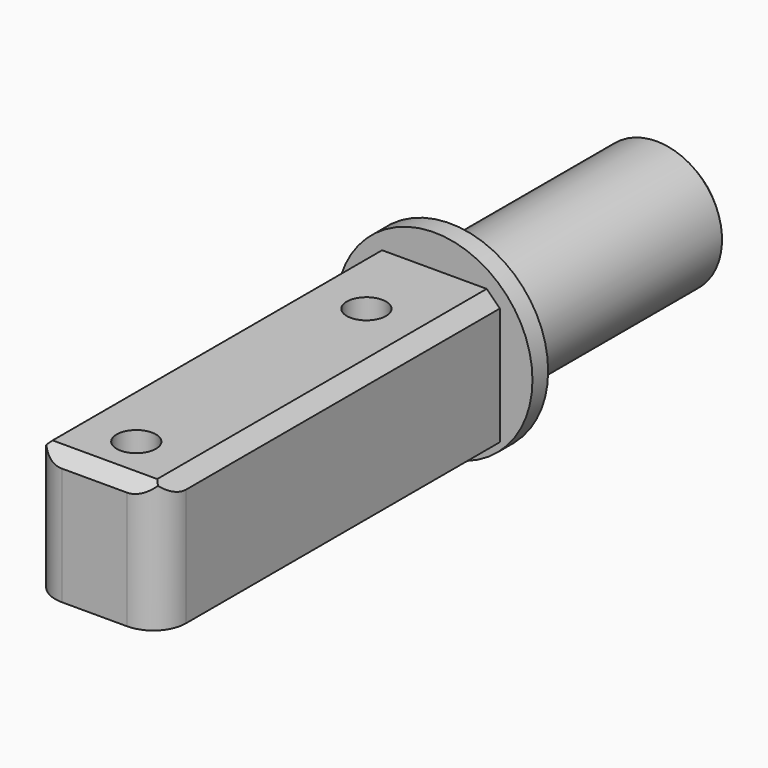
from build123d import *

# Parameters (mm, degrees)
F0_W      = 20
F0_H      = 20
F1_DEPTH  = 65
F0_R      = 15
F1_FACE_W = 20
F1_FACE_H = 20
F2_DEPTH  = 3
F3_R      = 10
F4_DEPTH  = 40.5
F6_D      = 5
F6_DEPTH  = 15
F6_TIP    = 1.5021515476
F7_SIZE   = 1
F9_D      = 6
F10_SIZE  = 2
F11_R     = 5


with BuildPart() as f1:
    # F0 (on Front) → F1 (new body)
    with BuildSketch(Plane.XZ):
        Rectangle(F0_W, F0_H)
    extrude(amount=F1_DEPTH)

    # F0 (on Front) + F1_face (on face) → F2 (join)
    with BuildSketch(Plane.XZ):
        Circle(F0_R)
        Rectangle(F0_W, F0_H, mode=Mode.SUBTRACT)
        Rectangle(F0_W, F0_H)
    with BuildSketch(Plane(origin=(0, 0, 0), x_dir=(1, 0, 0), z_dir=(0, 1, 0))):
        Rectangle(F1_FACE_W, F1_FACE_H)
    extrude(amount=-F2_DEPTH, dir=(0, -1, 0))

    # F3 (on face) → F4 (join)
    with BuildSketch(Plane(origin=(0, 3, 0), x_dir=(-1, 0, 0), z_dir=(0, 1, 0))):
        Circle(F3_R)
    extrude(amount=F4_DEPTH)

    # F6
    with Locations(Plane(origin=(0, 43.5, 0), x_dir=(-1, 0, 0), z_dir=(0, 1, 0))):
        with Locations((0, 0)):
            Hole(F6_D / 2, depth=F6_DEPTH)
            with Locations((0, 0, -(F6_DEPTH + F6_TIP / 2))):  # 118° drill point
                Cone(0, F6_D / 2, F6_TIP, mode=Mode.SUBTRACT)

    # F7
    f7_edges = [f1.edges().sort_by_distance(p)[0] for p in [
        (10, 43.5, 0),
    ]]
    chamfer(f7_edges, length=F7_SIZE)

    # F9 (through all)
    with Locations(Plane.XY.offset(10)):
        with Locations((0, -13), (0, -57)):
            Hole(F9_D / 2)

    # F10
    f10_edges = [f1.edges().sort_by_distance(p)[0] for p in [
        (0, -65, 10),
        (-10, -32.5, 10),
        (10, -32.5, 10),
    ]]
    chamfer(f10_edges, length=F10_SIZE)

    # F11
    f11_edges = [f1.edges().sort_by_distance(p)[0] for p in [
        (-10, -65, -1),
        (10, -65, -1),
    ]]
    fillet(f11_edges, radius=F11_R)


solid = f1.part
